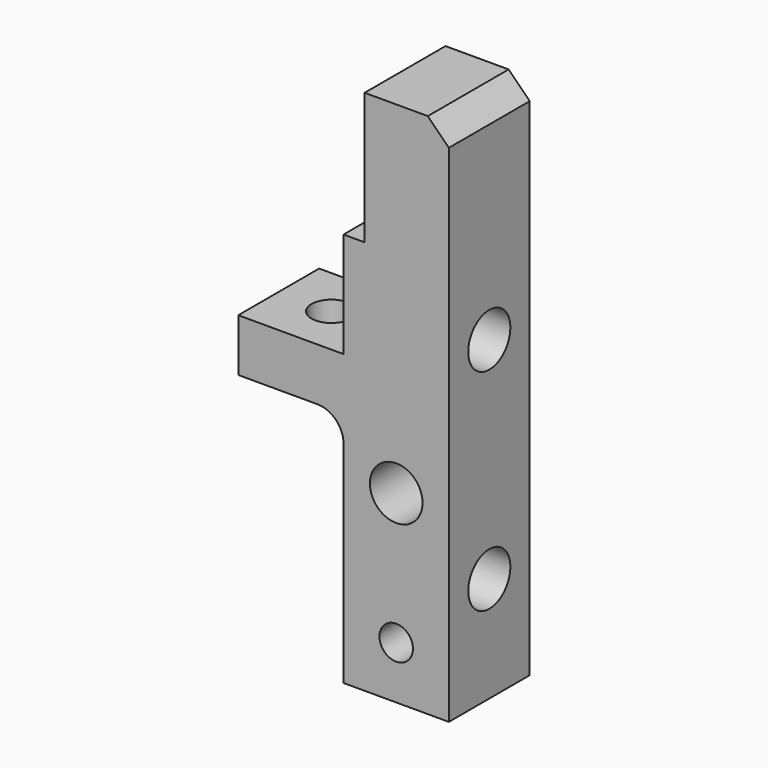
from build123d import *

# Parameters (mm, degrees)
F0_R     = 2.0193
F0_R_2   = 3.175
F1_DEPTH = 6.096
F2_R     = 3.175
F3_DEPTH = 25.401
F4_R     = 2.3876
F5_DEPTH = 34.926
F6_SIZE  = 2.54


with BuildPart() as f1:
    # F0 (on Front) → F1 (new body, symmetric)
    with BuildSketch(Plane.XZ):
        with BuildLine():
            Line((0, -63.5), (0, 0))
            Line((0, 0), (-10.16, 0))
            Line((-10.16, 0), (-10.16, -15.875))
            Line((-10.16, -15.875), (-12.7, -15.875))
            Line((-12.7, -15.875), (-12.7, -28.575))
            Line((-12.7, -28.575), (-25.4, -28.575))
            Line((-25.4, -28.575), (-25.4, -34.925))
            Line((-25.4, -34.925), (-15.875, -34.925))
            ThreePointArc((-15.875, -34.925), (-13.6299359697, -35.8549359697), (-12.7, -38.1))
            Line((-12.7, -38.1), (-12.7, -63.5))
            Line((-12.7, -63.5), (0, -63.5))
        make_face()
        with Locations((-6.35, -57.15)):
            Circle(F0_R, mode=Mode.SUBTRACT)
        with Locations((-6.35, -41.275)):
            Circle(F0_R_2, mode=Mode.SUBTRACT)
    extrude(amount=F1_DEPTH, both=True)

    # F2 (on face) → F3 (cut, through all)
    with BuildSketch(Plane.YZ):
        with Locations((0, -25.4)):
            Circle(F2_R)
        with Locations((0, -50.8)):
            Circle(F2_R)
    extrude(amount=-F3_DEPTH, mode=Mode.SUBTRACT)

    # F4 (on face) → F5 (cut, through all)
    with BuildSketch(Plane.XY.offset(-28.575)):
        with Locations((-19.05, 0)):
            Circle(F4_R)
    extrude(amount=-F5_DEPTH, mode=Mode.SUBTRACT)

    # F6
    f6_edges = [f1.edges().sort_by_distance(p)[0] for p in [
        (0, 0, 0),
    ]]
    chamfer(f6_edges, length=F6_SIZE)


solid = f1.part
